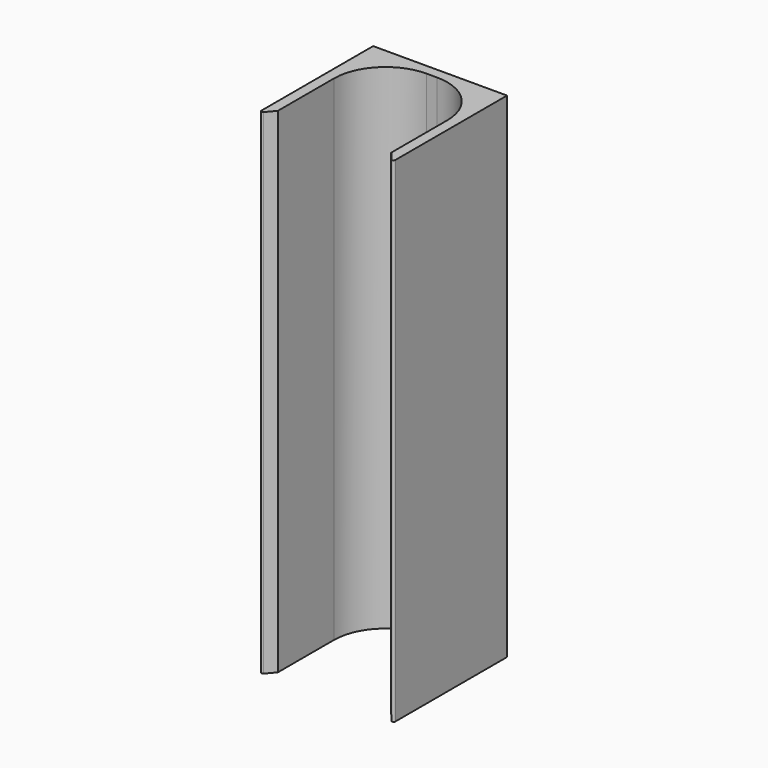
from build123d import *

# Parameters (mm, degrees)
F1_DEPTH      = 120
F1_DEPTH_BACK = 120


with BuildPart() as f1:
    # F0 (on Top) → F1 (new body, two sides)
    with BuildSketch(Plane.XY) as f1_sk:
        with BuildLine():
            Line((0, 27.5), (2.5, 27.5))
            ThreePointArc((2.5, 27.5), (20.17767, 20.17767), (27.5, 2.5))
            Line((27.5, 2.5), (27.5, 0))
            Line((27.5, 0), (27.5, -31.522648))
            Line((27.5, -31.522648), (31.086377, -35.810055))
            ThreePointArc((31.086377, -35.810055), (31.97304, -36.048729), (32.5, -35.296765))
            Line((32.5, -35.296765), (32.5, -32.5))
            Line((32.5, -32.5), (32.5, 32.5))
            Line((32.5, 32.5), (-32.499999, 32.5))
            Line((-32.499999, 32.5), (-32.499999, -32.5))
            Line((-32.499999, -32.5), (-32.499999, -35.296765))
            ThreePointArc((-32.499999, -35.296765), (-31.973039, -36.048728), (-31.086376, -35.810055))
            Line((-31.086376, -35.810055), (-27.5, -31.522648))
            Line((-27.5, -31.522648), (-27.5, 0))
            Line((-27.5, 0), (-27.5, 2.5))
            ThreePointArc((-27.5, 2.5), (-20.17767, 20.17767), (-2.5, 27.5))
            Line((-2.5, 27.5), (0, 27.5))
        make_face()
    extrude(amount=F1_DEPTH)
    extrude(f1_sk.sketch, amount=-F1_DEPTH_BACK)


solid = f1.part
